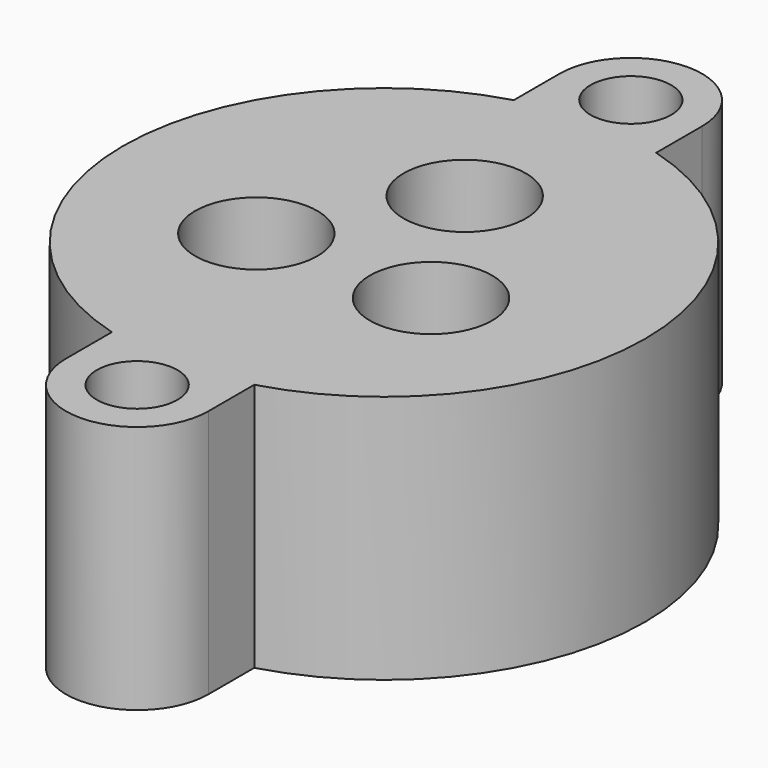
from build123d import *

# Parameters (mm, degrees)
CYLINDER150_R       = 1.7
CYLINDER150_DEPTH   = 11
CYLINDER154_R       = 7.14375
CYLINDER154_DEPTH   = 2.38125
CYLINDER155_R       = 9.525
CYLINDER155_DEPTH   = 2.38125
CYLINDER157_R       = 2.2
CYLINDER157_DEPTH   = 9
CYLINDER156_R       = 0.8
CYLINDER156_DEPTH   = 5
CYLINDER147_R       = 2.575
CYLINDER147_DEPTH   = 6
ARRAY_COUNT         = 3
CYLINDER151_R       = 1.7
CYLINDER151_DEPTH   = 11
BOX001_W            = 3
BOX001_H            = 6
BOX001_DEPTH        = 10.5
BOX_W               = 3
BOX_H               = 6
BOX_DEPTH           = 10.5
CYLINDER_R          = 3
CYLINDER_DEPTH      = 10.5
CYLINDER153_R       = 11
CYLINDER153_DEPTH   = 10.5
CYLINDER158_R       = 3
CYLINDER158_DEPTH   = 10.5
CUT_PLACEMENT_ANGLE = 90


with BuildPart() as obj1:
    # Cylinder150 → Cylinder150 (new body)
    with BuildSketch(Plane(origin=(-13, 0, 0), x_dir=(1, 0, 0), z_dir=(0, 0, 1))):
        Circle(CYLINDER150_R)
    extrude(amount=CYLINDER150_DEPTH)


with BuildPart() as cylinder008:
    # Cylinder154 → Cylinder154 (new body)
    with BuildSketch(Plane.XY):
        Circle(CYLINDER154_R)
    extrude(amount=CYLINDER154_DEPTH)


with BuildPart() as oring:
    # Cylinder155 → Cylinder155 (new body)
    with BuildSketch(Plane.XY):
        Circle(CYLINDER155_R)
    extrude(amount=CYLINDER155_DEPTH)

    # Cut019: cut Cylinder008
    add(cylinder008.part, mode=Mode.SUBTRACT)


with BuildPart() as oring_1:
    # Cut019 placement: moved
    add(oring.part.moved(Location((0, 0, -0.75))))


with BuildPart() as sealsubtraction:
    # Cylinder157 → Cylinder157 (new body)
    with BuildSketch(Plane.XY.offset(1.3)):
        Circle(CYLINDER157_R)
    extrude(amount=CYLINDER157_DEPTH)


with BuildPart() as bottomwireoutlet:
    # Cylinder156 → Cylinder156 (new body)
    with BuildSketch(Plane.XY.offset(-2)):
        Circle(CYLINDER156_R)
    extrude(amount=CYLINDER156_DEPTH)


with BuildPart() as sealarray:
    # Cylinder147 → Cylinder147 (new body)
    with BuildSketch(Plane.XY.offset(4.5)):
        Circle(CYLINDER147_R)
    extrude(amount=CYLINDER147_DEPTH)

    # Fusion: union SealSubtraction, BottomWireOutlet
    add(sealsubtraction.part)
    add(bottomwireoutlet.part)


with BuildPart() as sealarray_1:
    # Fusion placement: moved
    add(sealarray.part.moved(Location((4.25, 0, 0))))

    # Array: SealArray ×3 about axis
    array_axis = Axis((0, 0, 0), (0, 0, 1))


with BuildPart() as sealarray_2:
    add(sealarray_1.part)
    for i in range(1, ARRAY_COUNT):
        add(sealarray_1.part.rotate(array_axis, i * 360 / ARRAY_COUNT))


with BuildPart() as fusion002:
    # Cylinder151 → Cylinder151 (new body)
    with BuildSketch(Plane(origin=(13, 0, 0), x_dir=(1, 0, 0), z_dir=(0, 0, 1))):
        Circle(CYLINDER151_R)
    extrude(amount=CYLINDER151_DEPTH)

    # Fusion002: union obj1, Oring, SealArray
    add(obj1.part)
    add(oring_1.part)
    add(sealarray_2.part)


with BuildPart() as mountcube002:
    # Box001 → Box001 (new body)
    with BuildSketch(Plane(origin=(10, -3, 0), x_dir=(1, 0, 0), z_dir=(0, 0, 1))):
        with Locations((1.5, 3)):
            Rectangle(BOX001_W, BOX001_H)
    extrude(amount=BOX001_DEPTH)


with BuildPart() as mountcube1:
    # Box → Box (new body)
    with BuildSketch(Plane(origin=(-13, -3, 0), x_dir=(1, 0, 0), z_dir=(0, 0, 1))):
        with Locations((1.5, 3)):
            Rectangle(BOX_W, BOX_H)
    extrude(amount=BOX_DEPTH)


with BuildPart() as mountflange1:
    # Cylinder → Cylinder (new body)
    with BuildSketch(Plane(origin=(-13, 0, 0), x_dir=(1, 0, 0), z_dir=(0, 0, 1))):
        Circle(CYLINDER_R)
    extrude(amount=CYLINDER_DEPTH)


with BuildPart() as body:
    # Cylinder153 → Cylinder153 (new body)
    with BuildSketch(Plane.XY):
        Circle(CYLINDER153_R)
    extrude(amount=CYLINDER153_DEPTH)


with BuildPart() as base_cut:
    # Cylinder158 → Cylinder158 (new body)
    with BuildSketch(Plane(origin=(13, 0, 0), x_dir=(1, 0, 0), z_dir=(0, 0, 1))):
        Circle(CYLINDER158_R)
    extrude(amount=CYLINDER158_DEPTH)

    # Fusion001: union MountCube002, MountCube1, MountFlange1, Body
    add(mountcube002.part)
    add(mountcube1.part)
    add(mountflange1.part)
    add(body.part)

    # Cut: cut Fusion002
    add(fusion002.part, mode=Mode.SUBTRACT)


with BuildPart() as base_cut_1:
    # Cut placement: moved
    add(base_cut.part.moved(Location((0, 0, -10.5))).rotate(Axis((0, 0, -10.5), (0, 0, 1)), CUT_PLACEMENT_ANGLE))


solid = base_cut_1.part
